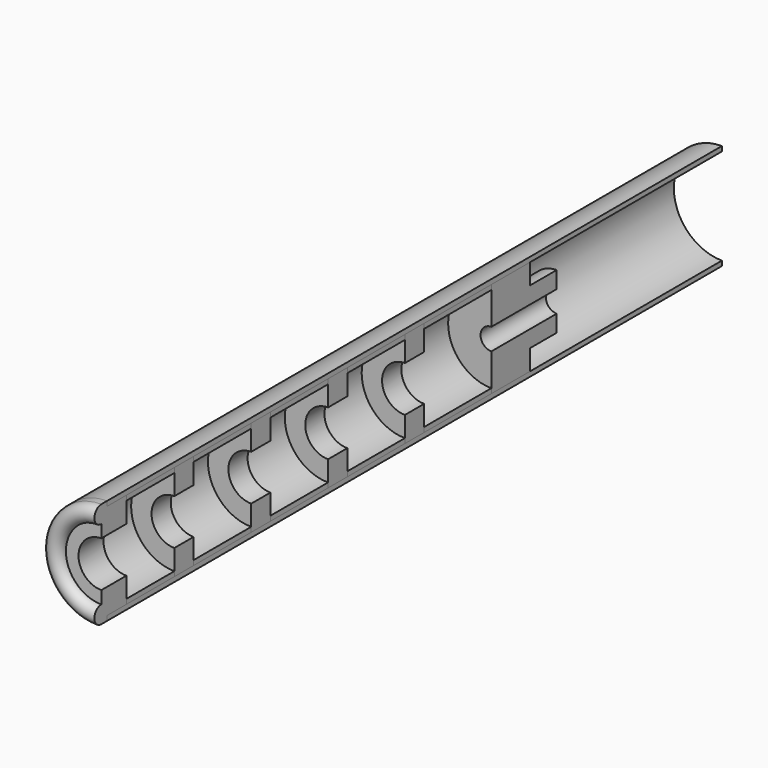
from build123d import *

# Parameters (mm, degrees)
F0_W     = 17.5
F0_H     = 1
F0_W_2   = 15
F0_W_3   = 12.5
F0_W_4   = 7
F0_H_2   = 3.5
F4_W     = 190.327004
F4_H     = 38.759522
F5_DEPTH = 25


with BuildPart() as f1:
    # F0 (on Right) → F1 (revolve)
    with BuildSketch(Plane.YZ):
        Polygon((0, 10), (0, 11), (-160, 11), (-160, 10), (-155, 10), (-142.5, 10), (-137.5, 10), (-122.5, 10), (-117.5, 10), (-102.5, 10), (-97.5, 10), (-82.5, 10), (-77.5, 10), (-60, 10), (-50, 10), align=None)
    revolve(axis=Axis((0, -80, 0), (0, -1, 0)))


with BuildPart() as f2:
    # F0 (on Right) → F2 (revolve)
    with BuildSketch(Plane.YZ):
        with Locations((-68.75, 9.5)):
            Rectangle(F0_W, F0_H)
        with Locations((-90, 9.5)):
            Rectangle(F0_W_2, F0_H)
        with Locations((-110, 9.5)):
            Rectangle(F0_W_2, F0_H)
        with Locations((-148.75, 9.5)):
            Rectangle(F0_W_3, F0_H)
        with Locations((-130, 9.5)):
            Rectangle(F0_W_2, F0_H)
    revolve(axis=Axis((0, -80, 0), (0, -1, 0)))


with BuildPart() as f3:
    # F0 (on Right) → F3 (revolve)
    with BuildSketch(Plane.YZ):
        Polygon((-50, 5.75), (-50, 10), (-60, 10), (-60, 9), (-60, 2.25), (-50, 2.25), align=None)
        Polygon((-77.5, 9), (-77.5, 10), (-82.5, 10), (-82.5, 9), (-82.5, 4.75), (-77.5, 4.75), align=None)
        Polygon((-97.5, 9), (-97.5, 10), (-102.5, 10), (-102.5, 9), (-102.5, 4.75), (-97.5, 4.75), align=None)
        Polygon((-117.5, 10), (-122.5, 10), (-122.5, 9), (-122.5, 4.75), (-117.5, 4.75), (-117.5, 9), align=None)
        Polygon((-137.5, 10), (-142.5, 10), (-142.5, 9), (-142.5, 4.75), (-137.5, 4.75), (-137.5, 9), align=None)
        Polygon((-155, 10), (-160, 10), (-160, 7.375), (-160, 4.75), (-155, 4.75), (-155, 9), align=None)
        with Locations((-46.5, 4)):
            Rectangle(F0_W_4, F0_H_2)
        Polygon((-160, 10), (-160, 11), (-161.5, 11), (-161.5, 7.375), (-161.5, 4.75), (-160, 4.75), (-160, 7.375), align=None)
        with BuildLine():
            Line((-161.5, 7.375), (-161.5, 11))
            ThreePointArc((-161.5, 11), (-163.3125, 9.1875), (-161.5, 7.375))
        make_face()
    revolve(axis=Axis((0, -80, 0), (0, -1, 0)))


with BuildPart() as f5_tool:
    # F4 (on Right) → F5 (new body)
    with BuildSketch(Plane.YZ):
        with Locations((-79.199292, 0.402637)):
            Rectangle(F4_W, F4_H)
    extrude(amount=F5_DEPTH)


with BuildPart() as f1_1:
    add(f1.part)

    # F5: cut by f5_tool
    add(f5_tool.part, mode=Mode.SUBTRACT)


with BuildPart() as f2_1:
    add(f2.part)

    # F5: cut by f5_tool
    add(f5_tool.part, mode=Mode.SUBTRACT)


with BuildPart() as f3_1:
    add(f3.part)

    # F5: cut by f5_tool
    add(f5_tool.part, mode=Mode.SUBTRACT)


solid = Compound([f1_1.part, f2_1.part, f3_1.part])
